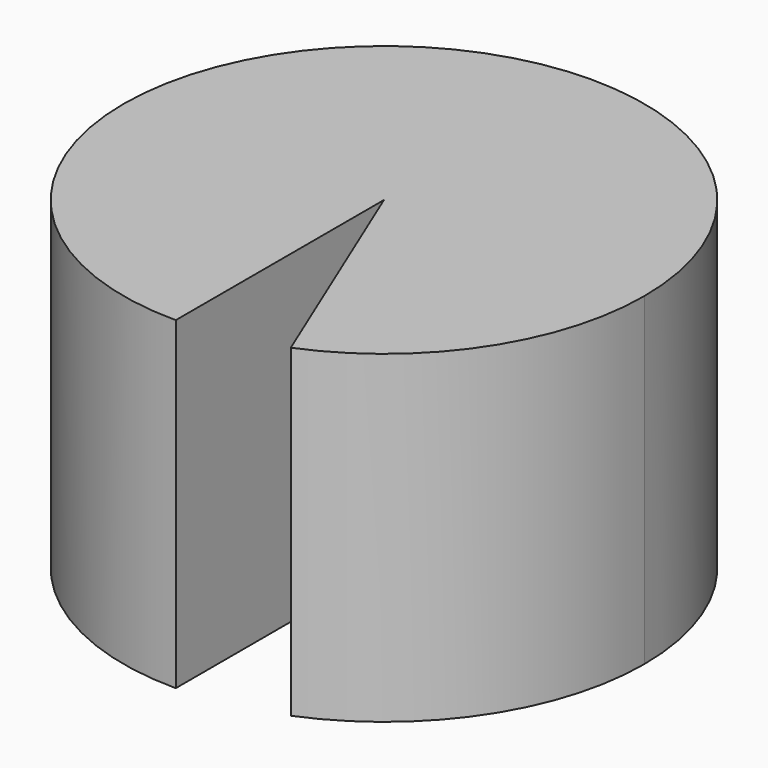
from build123d import *

# Parameters (mm, degrees)
F1_DEPTH = 25


with BuildPart() as f1:
    # F0 (on Top) → F1 (new body)
    with BuildSketch(Plane.XY):
        with BuildLine():
            ThreePointArc((7.659052, -18.567355), (16.691913, -11.170846), (20.085013, 0))
            ThreePointArc((20.085013, 0), (-14.202249, 14.202249), (0, -20.085013))
            Line((0, -20.085013), (0, 0))
            Line((0, 0), (7.659052, -18.567355))
        make_face()
    extrude(amount=F1_DEPTH)


solid = f1.part
